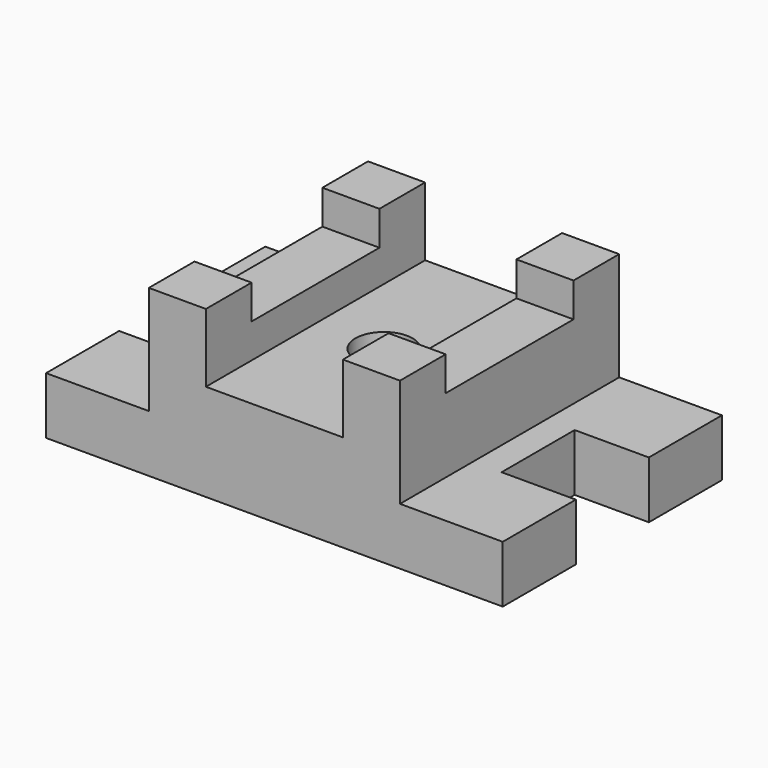
from build123d import *

# Parameters (mm, degrees)
F1_DEPTH  = 152.4
F3_W      = 41.275
F3_H      = 50.8
F4_DEPTH  = 31.75
F2_W      = 88.9
F2_H      = 19.05
F5_DEPTH  = 31.75
F6_W      = 88.9
F6_H      = 19.05
F7_DEPTH  = 31.75
F8_R      = 15.875
F9_DEPTH  = 254
F10_DEPTH = 254


with BuildPart() as f1:
    # F0 (on Front) → F1 (new body)
    with BuildSketch(Plane.XZ):
        Polygon((-127, -83.729997), (127, -83.729997), (127, -51.979997), (69.85, -51.979997), (69.85, 8.345003), (38.1, 8.345003), (38.1, -29.754997), (-38.1, -29.754997), (-38.1, 8.345003), (-69.85, 8.345003), (-69.85, -51.979997), (-127, -51.979997), align=None)
    extrude(amount=F1_DEPTH)

    # F3 (on face) → F4 (cut)
    with BuildSketch(Plane(origin=(0, 0, -83.729997), x_dir=(1, 0, 0), z_dir=(0, 0, -1))):
        with Locations((106.3625, 76.2)):
            Rectangle(F3_W, F3_H)
        with Locations((-106.3625, 76.2)):
            Rectangle(F3_W, F3_H)
    extrude(amount=-F4_DEPTH, mode=Mode.SUBTRACT)

    # F2 (on face) → F5 (cut)
    with BuildSketch(Plane.YZ.offset(69.85)):
        with Locations((-76.2, -1.179997)):
            Rectangle(F2_W, F2_H)
    extrude(amount=-F5_DEPTH, mode=Mode.SUBTRACT)

    # F6 (on face) → F7 (cut)
    with BuildSketch(Plane(origin=(-69.85, 0, 0), x_dir=(0, -1, 0), z_dir=(-1, 0, 0))):
        with Locations((76.2, -1.179997)):
            Rectangle(F6_W, F6_H)
    extrude(amount=-F7_DEPTH, mode=Mode.SUBTRACT)

    # F8 (on face) → F9 (cut)
    with BuildSketch(Plane.XY.offset(-29.754997)):
        with Locations((0, -76.2)):
            Circle(F8_R)
    extrude(amount=F9_DEPTH, mode=Mode.SUBTRACT)

    # F8 (on face) → F10 (cut)
    with BuildSketch(Plane.XY.offset(-29.754997)):
        with Locations((0, -76.2)):
            Circle(F8_R)
    extrude(amount=-F10_DEPTH, mode=Mode.SUBTRACT)


solid = f1.part
